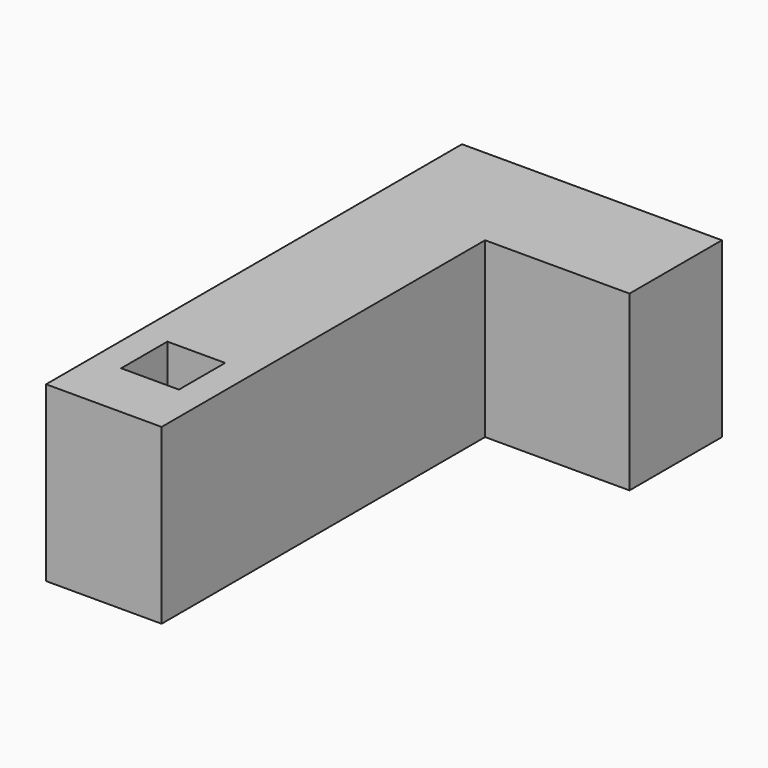
from build123d import *

# Parameters (mm, degrees)
BOX055_W     = 10
BOX055_H     = 10
BOX055_DEPTH = 12
BOX052_W     = 45
BOX052_H     = 20
BOX052_DEPTH = 30
BOX051_W     = 20
BOX051_H     = 90
BOX051_DEPTH = 30


with BuildPart() as obj1:
    # Box055 → Box055 (new body)
    with BuildSketch(Plane(origin=(10, 125, 20), x_dir=(1, 0, 0), z_dir=(0, 0, 1))):
        with Locations((5, 5)):
            Rectangle(BOX055_W, BOX055_H)
    extrude(amount=BOX055_DEPTH)


with BuildPart() as obj2:
    # Box052 → Box052 (new body)
    with BuildSketch(Plane(origin=(5, 185, 0), x_dir=(1, 0, 0), z_dir=(0, 0, 1))):
        with Locations((22.5, 10)):
            Rectangle(BOX052_W, BOX052_H)
    extrude(amount=BOX052_DEPTH)


with BuildPart() as obj3:
    # Box051 → Box051 (new body)
    with BuildSketch(Plane(origin=(5, 115, 0), x_dir=(1, 0, 0), z_dir=(0, 0, 1))):
        with Locations((10, 45)):
            Rectangle(BOX051_W, BOX051_H)
    extrude(amount=BOX051_DEPTH)

    # Fusion017: union obj2
    add(obj2.part)

    # Cut025: cut obj1
    add(obj1.part, mode=Mode.SUBTRACT)


solid = obj3.part
